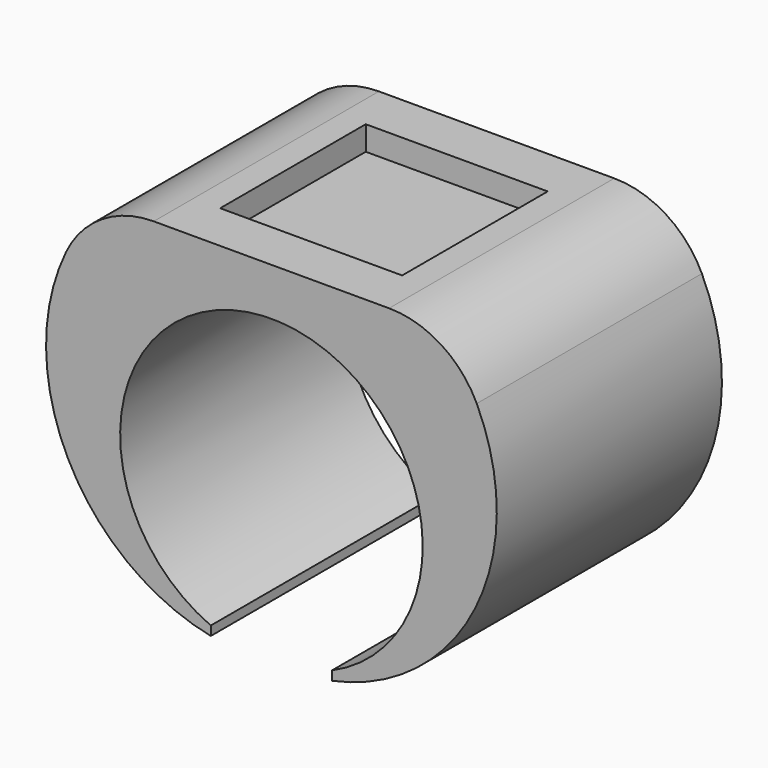
from build123d import *

# Parameters (mm, degrees)
F1_DEPTH = 29.464
F2_R     = 10.16
F3_W     = 19.05
F3_H     = 19.05
F4_DEPTH = 2.54


with BuildPart() as f1:
    # F0 (on Front) → F1 (new body)
    with BuildSketch(Plane.XZ):
        with BuildLine():
            Line((17.4625, 2.54), (-17.4625, 2.54))
            ThreePointArc((-17.4625, 2.54), (-22.643836, -18.887087), (-6.35, -33.735563))
            Line((-6.35, -33.735563), (-6.35, -32.769032))
            ThreePointArc((-6.35, -32.769032), (0, -2.424034), (6.35, -32.769032))
            Line((6.35, -32.769032), (6.35, -33.735565))
            ThreePointArc((6.35, -33.735565), (22.643841, -18.88709), (17.4625, 2.54))
        make_face()
    extrude(amount=F1_DEPTH)

    # F2
    f2_edges = [f1.edges().sort_by_distance(p)[0] for p in [
        (-17.4625, -14.732, 2.54),
        (17.4625, -14.732, 2.54),
    ]]
    fillet(f2_edges, radius=F2_R)

    # F3 (on face) → F4 (cut)
    with BuildSketch(Plane.XY.offset(2.54)):
        with Locations((-0.005137, -14.732)):
            Rectangle(F3_W, F3_H)
    extrude(amount=-F4_DEPTH, mode=Mode.SUBTRACT)


solid = f1.part
